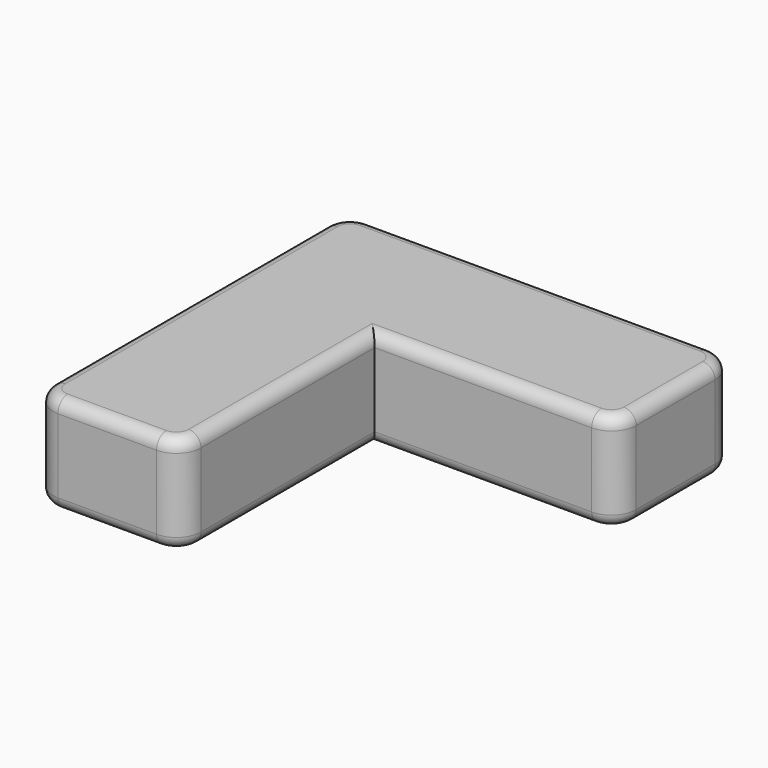
from build123d import *

# Parameters (mm, degrees)
F1_DEPTH = 3.175
F2_R     = 0.396875


with BuildPart() as f1:
    # F0 (on Top) → F1 (new body)
    with BuildSketch(Plane.XY):
        with BuildLine():
            Line((-1.5875, -10.16), (1.5875, -10.16))
            ThreePointArc((1.5875, -10.16), (2.1487660076, -9.9275160076), (2.38125, -9.36625))
            Line((2.38125, -9.36625), (2.38125, -2.38125))
            Line((2.38125, -2.38125), (-2.38125, -2.38125))
            Line((-2.38125, -2.38125), (-2.38125, -9.36625))
            ThreePointArc((-2.38125, -9.36625), (-2.1487660076, -9.9275160076), (-1.5875, -10.16))
        make_face()
        with BuildLine():
            Line((-2.38125, -2.38125), (2.38125, -2.38125))
            Line((2.38125, -2.38125), (2.38125, 2.38125))
            Line((2.38125, 2.38125), (-1.59385, 2.38125))
            ThreePointArc((-1.59385, 2.38125), (-2.1506258795, 2.1506258795), (-2.38125, 1.59385))
            Line((-2.38125, 1.59385), (-2.38125, -2.38125))
        make_face()
        with BuildLine():
            Line((2.38125, 2.38125), (2.38125, -2.38125))
            Line((2.38125, -2.38125), (9.36625, -2.38125))
            ThreePointArc((9.36625, -2.38125), (9.9275160076, -2.1487660076), (10.16, -1.5875))
            Line((10.16, -1.5875), (10.16, 1.5875))
            ThreePointArc((10.16, 1.5875), (9.9275160076, 2.1487660076), (9.36625, 2.38125))
            Line((9.36625, 2.38125), (2.38125, 2.38125))
        make_face()
    extrude(amount=F1_DEPTH)

    # F2
    f2_edges = [f1.edges().sort_by_distance(p)[0] for p in [
        (-2.148766, -9.927516, 3.175),
        (0, -10.16, 3.175),
        (2.148766, -9.927516, 3.175),
        (2.38125, -5.87375, 3.175),
        (5.87375, -2.38125, 3.175),
        (9.927516, -2.148766, 3.175),
        (10.16, 0, 3.175),
        (9.927516, 2.148766, 3.175),
        (3.8862, 2.38125, 3.175),
        (-2.150626, 2.150626, 3.175),
        (-2.38125, -3.8862, 3.175),
        (-2.148766, -9.927516, 0),
        (0, -10.16, 0),
        (2.148766, -9.927516, 0),
        (2.38125, -5.87375, 0),
        (5.87375, -2.38125, 0),
        (9.927516, -2.148766, 0),
        (10.16, 0, 0),
        (9.927516, 2.148766, 0),
        (3.8862, 2.38125, 0),
        (-2.150626, 2.150626, 0),
        (-2.38125, -3.8862, 0),
    ]]
    fillet(f2_edges, radius=F2_R)


solid = f1.part
